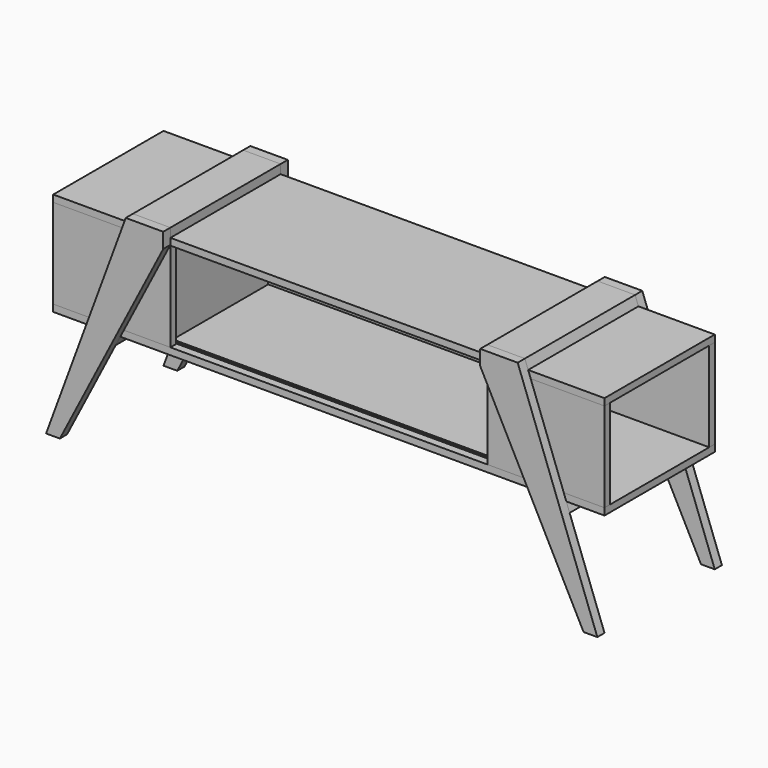
from build123d import *

# Parameters (mm, degrees)
F5_W           = 1600
F5_H           = 20
F6_DEPTH       = 200
F7_W           = 20
F7_H           = 260
F8_DEPTH       = 800
F9_W           = 20
F9_H           = 260
F10_DEPTH      = 180
F12_W          = 20
F12_H          = 260
F13_DEPTH      = 20
F13_DEPTH_BACK = 320
F15_W          = 1000
F15_H          = 4
F16_DEPTH      = 3
F18_DEPTH      = 26
F23_DEPTH      = 400
F26_DEPTH      = 400


with BuildPart() as f6:
    # F5 (on Front) → F6 (new body, symmetric)
    with BuildSketch(Plane.XZ):
        with Locations((0, 590)):
            Rectangle(F5_W, F5_H)
    extrude(amount=F6_DEPTH, both=True)


with BuildPart() as f6b:
    # F5 (on Front) → F6, piece 2 (new body, symmetric)
    with BuildSketch(Plane.XZ):
        with Locations((0, 310)):
            Rectangle(F5_W, F5_H)
    extrude(amount=F6_DEPTH, both=True)

    # F15 (on face) → F16 (cut)
    with BuildSketch(Plane.XY.offset(320)):
        with Locations((0, -175)):
            Rectangle(F15_W, F15_H)
        with Locations((0, -168)):
            Rectangle(F15_W, F15_H)
    extrude(amount=-F16_DEPTH, mode=Mode.SUBTRACT)


with BuildPart() as f8:
    # F7 (on Right) → F8 (new body, symmetric)
    with BuildSketch(Plane.YZ):
        with Locations((190, 450)):
            Rectangle(F7_W, F7_H)
    extrude(amount=F8_DEPTH, both=True)


with BuildPart() as f10:
    # F9 (on Front) → F10 (new body, symmetric)
    with BuildSketch(Plane.XZ):
        with Locations((-490, 450)):
            Rectangle(F9_W, F9_H)
    extrude(amount=F10_DEPTH, both=True)


with BuildPart() as f11_1:
    # F11: instance of F10
    add(f10.part.mirror(Plane.YZ))


with BuildPart() as f13:
    # F12 (on face) → F13 (new body, two sides)
    with BuildSketch(Plane.YZ.offset(-480)) as f13_sk:
        with Locations((-190, 450)):
            Rectangle(F12_W, F12_H)
    extrude(amount=F13_DEPTH)
    extrude(f13_sk.sketch, amount=-F13_DEPTH_BACK)


with BuildPart() as f14_1:
    # F14: instance of F13
    add(f13.part.mirror(Plane.YZ))


with BuildPart() as f18:
    # F17 (on face) → F18 (new body)
    with BuildSketch(Plane.XZ.offset(200)):
        Polygon((-568.7985971229, 626), (-800, 0), (-760, 0), (-460, 581.9677017772), (-460, 626), align=None)
    extrude(amount=F18_DEPTH)


with BuildPart() as f19_1:
    # F19: instance of F18
    add(f18.part.mirror(Plane.YZ))


with BuildPart() as f20_1:
    # F20: instance of F18
    add(f18.part.mirror(Plane.XZ))


with BuildPart() as f21_1:
    # F21: instance of F19_1
    add(f19_1.part.mirror(Plane.XZ))


with BuildPart() as f23:
    # F22 (on face) → F23 (new body, through all)
    with BuildSketch(Plane.XZ.offset(-200)):
        Polygon((-568.7985971229, 626), (-578.4012112999, 600), (-460, 600), (-460, 626), align=None)
    extrude(amount=F23_DEPTH)


with BuildPart() as f24_1:
    # F24: instance of F23
    add(f23.part.mirror(Plane.YZ))


with BuildPart() as f26:
    # F25 (on face) → F26 (new body, through all)
    with BuildSketch(Plane.XZ.offset(-200)):
        Polygon((-605.3524269362, 299.9996422712), (-689.2007377704, 299.9996422712), (-698.8033519474, 273.9996422712), (-618.7552325836, 273.9996422712), align=None)
    extrude(amount=F26_DEPTH)


with BuildPart() as f27_1:
    # F27: instance of F26
    add(f26.part.mirror(Plane.YZ))


solid = Compound([f6.part, f6b.part, f8.part, f10.part, f11_1.part, f13.part, f14_1.part, f18.part, f19_1.part, f20_1.part, f21_1.part, f23.part, f24_1.part, f26.part, f27_1.part])
